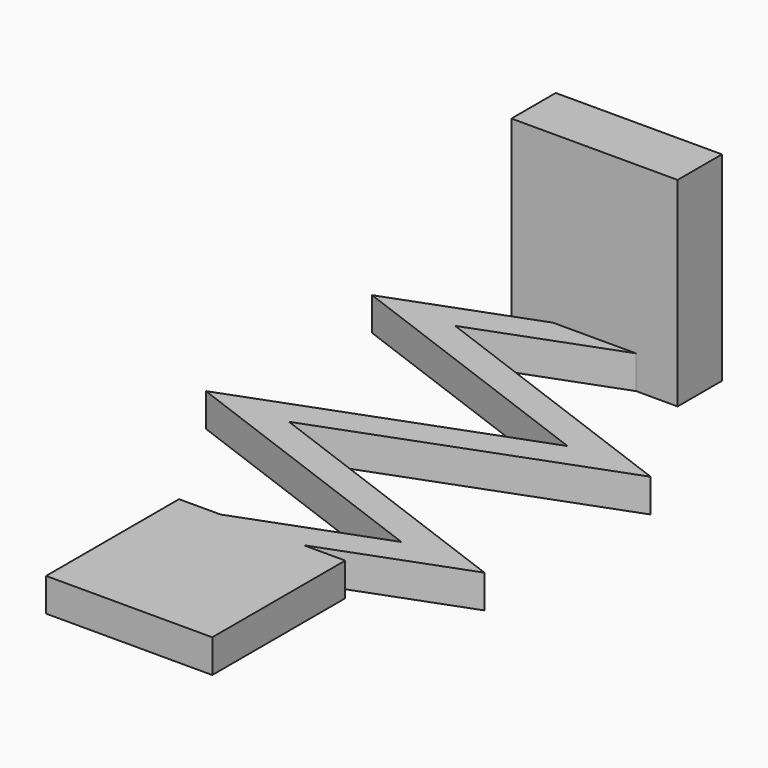
from build123d import *

# Parameters (mm, degrees)
PAD_DEPTH    = 0.6
SKETCH001_W  = 3
SKETCH001_H  = 1
PAD001_DEPTH = 3


with BuildPart() as part:
    # Sketch → Pad (new body)
    with BuildSketch(Plane.XY):
        Polygon((-0.75, 1.5), (-1.5, 1.5), (-1.5, -1.5), (1.5, -1.5), (1.5, 1.5), (0.75, 1.5), (3.264603, 2.4375), (-1.764603, 4.3125), (3.264603, 6.1875), (-1.764603, 8.0625), (0.75, 9), (1.5, 9), (1.5, 10), (-1.5, 10), (-1.5, 9), (-0.75, 9), (-3.264603, 8.0625), (1.764603, 6.1875), (-3.264603, 4.3125), (1.764603, 2.4375), align=None)
    extrude(amount=PAD_DEPTH)

    # Sketch001 → Pad001 (new body)
    with BuildSketch(Plane.XY.offset(0.6)):
        with Locations((0, 9.5)):
            Rectangle(SKETCH001_W, SKETCH001_H)
    extrude(amount=PAD001_DEPTH)


solid = part.part
